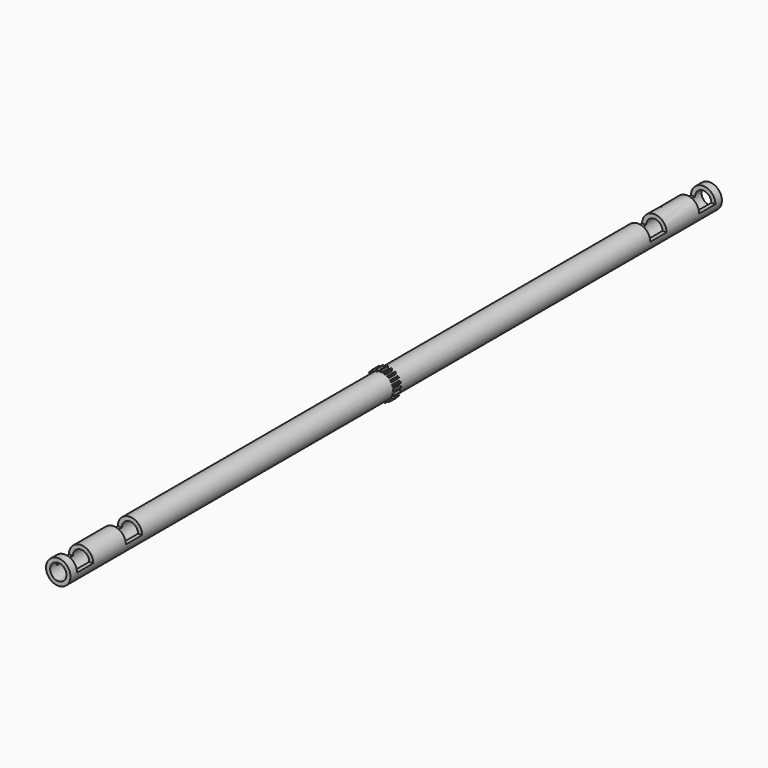
from build123d import *

# Parameters (mm, degrees)
F0_R     = 19.05
F1_DEPTH = 1270
F4_DEPTH = 6.35
F5_R     = 12.7
F6_DEPTH = 1270
F7_W     = 38.1
F7_H     = 31.75
F8_DEPTH = 19.05


with BuildPart() as f1:
    # F0 (on Front) → F1 (new body)
    with BuildSketch(Plane.XZ):
        Circle(F0_R)
    extrude(amount=F1_DEPTH)

    # F3 (on offset) → F4 (join, symmetric)
    with BuildSketch(Plane.XZ.offset(635)):
        with BuildLine():
            Line((17.956624, 11.605638), (18.417724, 12.439376))
            ThreePointArc((18.417724, 12.439376), (17.980403, 13.063527), (17.521939, 13.672318))
            Line((17.521939, 13.672318), (16.58652, 13.491425))
            ThreePointArc((16.58652, 13.491425), (15.792349, 13.245457), (15.070439, 12.833082))
            Line((15.070439, 12.833082), (14.466592, 12.394362))
            Line((14.466592, 12.394362), (16.22553, 9.90477))
            Line((16.22553, 9.90477), (16.862008, 10.367198))
            ThreePointArc((16.862008, 10.367198), (17.477283, 10.926345), (17.956624, 11.605638))
        make_face()
        with BuildLine():
            Line((13.491425, 16.58652), (13.672318, 17.521939))
            ThreePointArc((13.672318, 17.521939), (13.063527, 17.980403), (12.439376, 18.417724))
            Line((12.439376, 18.417724), (11.605638, 17.956624))
            ThreePointArc((11.605638, 17.956624), (10.926345, 17.477283), (10.367198, 16.862008))
            Line((10.367198, 16.862008), (9.928478, 16.258162))
            Line((9.928478, 16.258162), (12.370654, 14.43396))
            Line((12.370654, 14.43396), (12.833082, 15.070439))
            ThreePointArc((12.833082, 15.070439), (13.245457, 15.792349), (13.491425, 16.58652))
        make_face()
        with BuildLine():
            Line((7.705591, 19.943797), (7.58857, 20.889333))
            ThreePointArc((7.58857, 20.889333), (6.867903, 21.137231), (6.13916, 21.360275))
            Line((6.13916, 21.360275), (5.488716, 20.664104))
            ThreePointArc((5.488716, 20.664104), (4.990794, 19.99831), (4.649144, 19.240363))
            Line((4.649144, 19.240363), (4.418496, 18.530499))
            Line((4.418496, 18.530499), (7.304852, 17.550254))
            Line((7.304852, 17.550254), (7.547965, 18.298479))
            ThreePointArc((7.547965, 18.298479), (7.717074, 19.112488), (7.705591, 19.943797))
        make_face()
        with BuildLine():
            Line((1.165481, 21.348837), (0.762, 22.211933))
            ThreePointArc((0.762, 22.211933), (0, 22.225), (-0.762, 22.211933))
            Line((-0.762, 22.211933), (-1.165481, 21.348837))
            ThreePointArc((-1.165481, 21.348837), (-1.43329, 20.561763), (-1.524, 19.735337))
            Line((-1.524, 19.735337), (-1.524, 18.988942))
            Line((-1.524, 18.988942), (1.524, 18.948607))
            Line((1.524, 18.948607), (1.524, 19.735337))
            ThreePointArc((1.524, 19.735337), (1.43329, 20.561763), (1.165481, 21.348837))
        make_face()
        with BuildLine():
            Line((-5.488716, 20.664104), (-6.13916, 21.360275))
            ThreePointArc((-6.13916, 21.360275), (-6.867903, 21.137231), (-7.58857, 20.889333))
            Line((-7.58857, 20.889333), (-7.705591, 19.943797))
            ThreePointArc((-7.705591, 19.943797), (-7.717074, 19.112488), (-7.547965, 18.298479))
            Line((-7.547965, 18.298479), (-7.317316, 17.588615))
            Line((-7.317316, 17.588615), (-4.406031, 18.492138))
            Line((-4.406031, 18.492138), (-4.649144, 19.240363))
            ThreePointArc((-4.649144, 19.240363), (-4.990794, 19.99831), (-5.488716, 20.664104))
        make_face()
        with BuildLine():
            Line((-11.605638, 17.956624), (-12.439376, 18.417724))
            ThreePointArc((-12.439376, 18.417724), (-13.063527, 17.980403), (-13.672318, 17.521939))
            Line((-13.672318, 17.521939), (-13.491425, 16.58652))
            ThreePointArc((-13.491425, 16.58652), (-13.245457, 15.792349), (-12.833082, 15.070439))
            Line((-12.833082, 15.070439), (-12.394362, 14.466592))
            Line((-12.394362, 14.466592), (-9.90477, 16.22553))
            Line((-9.90477, 16.22553), (-10.367198, 16.862008))
            ThreePointArc((-10.367198, 16.862008), (-10.926345, 17.477283), (-11.605638, 17.956624))
        make_face()
        with BuildLine():
            Line((-16.58652, 13.491425), (-17.521939, 13.672318))
            ThreePointArc((-17.521939, 13.672318), (-17.980403, 13.063527), (-18.417724, 12.439376))
            Line((-18.417724, 12.439376), (-17.956624, 11.605638))
            ThreePointArc((-17.956624, 11.605638), (-17.477283, 10.926345), (-16.862008, 10.367198))
            Line((-16.862008, 10.367198), (-16.258162, 9.928478))
            Line((-16.258162, 9.928478), (-14.43396, 12.370654))
            Line((-14.43396, 12.370654), (-15.070439, 12.833082))
            ThreePointArc((-15.070439, 12.833082), (-15.792349, 13.245457), (-16.58652, 13.491425))
        make_face()
        with BuildLine():
            Line((-19.943797, 7.705591), (-20.889333, 7.58857))
            ThreePointArc((-20.889333, 7.58857), (-21.137231, 6.867903), (-21.360275, 6.13916))
            Line((-21.360275, 6.13916), (-20.664104, 5.488716))
            ThreePointArc((-20.664104, 5.488716), (-19.99831, 4.990794), (-19.240363, 4.649144))
            Line((-19.240363, 4.649144), (-18.530499, 4.418496))
            Line((-18.530499, 4.418496), (-17.550254, 7.304852))
            Line((-17.550254, 7.304852), (-18.298479, 7.547965))
            ThreePointArc((-18.298479, 7.547965), (-19.112488, 7.717074), (-19.943797, 7.705591))
        make_face()
        with BuildLine():
            Line((-21.348837, 1.165481), (-22.211933, 0.762))
            ThreePointArc((-22.211933, 0.762), (-22.225, 0), (-22.211933, -0.762))
            Line((-22.211933, -0.762), (-21.348837, -1.165481))
            ThreePointArc((-21.348837, -1.165481), (-20.561763, -1.43329), (-19.735337, -1.524))
            Line((-19.735337, -1.524), (-18.988942, -1.524))
            Line((-18.988942, -1.524), (-18.948607, 1.524))
            Line((-18.948607, 1.524), (-19.735337, 1.524))
            ThreePointArc((-19.735337, 1.524), (-20.561763, 1.43329), (-21.348837, 1.165481))
        make_face()
        with BuildLine():
            ThreePointArc((-21.360275, -6.13916), (-21.137231, -6.867903), (-20.889333, -7.58857))
            Line((-20.889333, -7.58857), (-19.943797, -7.705591))
            ThreePointArc((-19.943797, -7.705591), (-19.112488, -7.717074), (-18.298479, -7.547965))
            Line((-18.298479, -7.547965), (-17.588615, -7.317316))
            Line((-17.588615, -7.317316), (-18.492138, -4.406031))
            Line((-18.492138, -4.406031), (-19.240363, -4.649144))
            ThreePointArc((-19.240363, -4.649144), (-19.99831, -4.990794), (-20.664104, -5.488716))
            Line((-20.664104, -5.488716), (-21.360275, -6.13916))
        make_face()
        with BuildLine():
            ThreePointArc((-18.417724, -12.439376), (-17.980403, -13.063527), (-17.521939, -13.672318))
            Line((-17.521939, -13.672318), (-16.58652, -13.491425))
            ThreePointArc((-16.58652, -13.491425), (-15.792349, -13.245457), (-15.070439, -12.833082))
            Line((-15.070439, -12.833082), (-14.466592, -12.394362))
            Line((-14.466592, -12.394362), (-16.22553, -9.90477))
            Line((-16.22553, -9.90477), (-16.862008, -10.367198))
            ThreePointArc((-16.862008, -10.367198), (-17.477283, -10.926345), (-17.956624, -11.605638))
            Line((-17.956624, -11.605638), (-18.417724, -12.439376))
        make_face()
        with BuildLine():
            ThreePointArc((-13.672318, -17.521939), (-13.063527, -17.980403), (-12.439376, -18.417724))
            Line((-12.439376, -18.417724), (-11.605638, -17.956624))
            ThreePointArc((-11.605638, -17.956624), (-10.926345, -17.477283), (-10.367198, -16.862008))
            Line((-10.367198, -16.862008), (-9.928478, -16.258162))
            Line((-9.928478, -16.258162), (-12.370654, -14.43396))
            Line((-12.370654, -14.43396), (-12.833082, -15.070439))
            ThreePointArc((-12.833082, -15.070439), (-13.245457, -15.792349), (-13.491425, -16.58652))
            Line((-13.491425, -16.58652), (-13.672318, -17.521939))
        make_face()
        with BuildLine():
            ThreePointArc((-7.58857, -20.889333), (-6.867903, -21.137231), (-6.13916, -21.360275))
            Line((-6.13916, -21.360275), (-5.488716, -20.664104))
            ThreePointArc((-5.488716, -20.664104), (-4.990794, -19.99831), (-4.649144, -19.240363))
            Line((-4.649144, -19.240363), (-4.418496, -18.530499))
            Line((-4.418496, -18.530499), (-7.304852, -17.550254))
            Line((-7.304852, -17.550254), (-7.547965, -18.298479))
            ThreePointArc((-7.547965, -18.298479), (-7.717074, -19.112488), (-7.705591, -19.943797))
            Line((-7.705591, -19.943797), (-7.58857, -20.889333))
        make_face()
        with BuildLine():
            ThreePointArc((-0.762, -22.211933), (0, -22.225), (0.762, -22.211933))
            Line((0.762, -22.211933), (1.165481, -21.348837))
            ThreePointArc((1.165481, -21.348837), (1.43329, -20.561763), (1.524, -19.735337))
            Line((1.524, -19.735337), (1.524, -18.988942))
            Line((1.524, -18.988942), (-1.524, -18.948607))
            Line((-1.524, -18.948607), (-1.524, -19.735337))
            ThreePointArc((-1.524, -19.735337), (-1.43329, -20.561763), (-1.165481, -21.348837))
            Line((-1.165481, -21.348837), (-0.762, -22.211933))
        make_face()
        with BuildLine():
            ThreePointArc((6.13916, -21.360275), (6.867903, -21.137231), (7.58857, -20.889333))
            Line((7.58857, -20.889333), (7.705591, -19.943797))
            ThreePointArc((7.705591, -19.943797), (7.717074, -19.112488), (7.547965, -18.298479))
            Line((7.547965, -18.298479), (7.317316, -17.588615))
            Line((7.317316, -17.588615), (4.406031, -18.492138))
            Line((4.406031, -18.492138), (4.649144, -19.240363))
            ThreePointArc((4.649144, -19.240363), (4.990794, -19.99831), (5.488716, -20.664104))
            Line((5.488716, -20.664104), (6.13916, -21.360275))
        make_face()
        with BuildLine():
            ThreePointArc((12.439376, -18.417724), (13.063527, -17.980403), (13.672318, -17.521939))
            Line((13.672318, -17.521939), (13.491425, -16.58652))
            ThreePointArc((13.491425, -16.58652), (13.245457, -15.792349), (12.833082, -15.070439))
            Line((12.833082, -15.070439), (12.394362, -14.466592))
            Line((12.394362, -14.466592), (9.90477, -16.22553))
            Line((9.90477, -16.22553), (10.367198, -16.862008))
            ThreePointArc((10.367198, -16.862008), (10.926345, -17.477283), (11.605638, -17.956624))
            Line((11.605638, -17.956624), (12.439376, -18.417724))
        make_face()
        with BuildLine():
            ThreePointArc((17.521939, -13.672318), (17.980403, -13.063527), (18.417724, -12.439376))
            Line((18.417724, -12.439376), (17.956624, -11.605638))
            ThreePointArc((17.956624, -11.605638), (17.477283, -10.926345), (16.862008, -10.367198))
            Line((16.862008, -10.367198), (16.258162, -9.928478))
            Line((16.258162, -9.928478), (14.43396, -12.370654))
            Line((14.43396, -12.370654), (15.070439, -12.833082))
            ThreePointArc((15.070439, -12.833082), (15.792349, -13.245457), (16.58652, -13.491425))
            Line((16.58652, -13.491425), (17.521939, -13.672318))
        make_face()
        with BuildLine():
            ThreePointArc((20.889333, -7.58857), (21.137231, -6.867903), (21.360275, -6.13916))
            Line((21.360275, -6.13916), (20.664104, -5.488716))
            ThreePointArc((20.664104, -5.488716), (19.99831, -4.990794), (19.240363, -4.649144))
            Line((19.240363, -4.649144), (18.530499, -4.418496))
            Line((18.530499, -4.418496), (17.550254, -7.304852))
            Line((17.550254, -7.304852), (18.298479, -7.547965))
            ThreePointArc((18.298479, -7.547965), (19.112488, -7.717074), (19.943797, -7.705591))
            Line((19.943797, -7.705591), (20.889333, -7.58857))
        make_face()
        with BuildLine():
            ThreePointArc((22.211933, -0.762), (22.221733, -0.381056), (22.225, 0))
            ThreePointArc((22.225, 0), (22.221733, 0.381056), (22.211933, 0.762))
            Line((22.211933, 0.762), (21.348837, 1.165481))
            ThreePointArc((21.348837, 1.165481), (20.561763, 1.43329), (19.735337, 1.524))
            Line((19.735337, 1.524), (18.988942, 1.524))
            Line((18.988942, 1.524), (18.948607, -1.524))
            Line((18.948607, -1.524), (19.735337, -1.524))
            ThreePointArc((19.735337, -1.524), (20.561763, -1.43329), (21.348837, -1.165481))
            Line((21.348837, -1.165481), (22.211933, -0.762))
        make_face()
        with BuildLine():
            Line((20.664104, 5.488716), (21.360275, 6.13916))
            ThreePointArc((21.360275, 6.13916), (21.137231, 6.867903), (20.889333, 7.58857))
            Line((20.889333, 7.58857), (19.943797, 7.705591))
            ThreePointArc((19.943797, 7.705591), (19.112488, 7.717074), (18.298479, 7.547965))
            Line((18.298479, 7.547965), (17.588615, 7.317316))
            Line((17.588615, 7.317316), (18.492138, 4.406031))
            Line((18.492138, 4.406031), (19.240363, 4.649144))
            ThreePointArc((19.240363, 4.649144), (19.99831, 4.990794), (20.664104, 5.488716))
        make_face()
    extrude(amount=F4_DEPTH, both=True)

    # F5 (on face) → F6 (cut)
    with BuildSketch(Plane.XZ.offset(1270)):
        Circle(F5_R)
    extrude(amount=-F6_DEPTH, mode=Mode.SUBTRACT)

    # F7 (on Top) → F8 (cut)
    with BuildSketch(Plane.XY):
        with Locations((0, -28.575)):
            Rectangle(F7_W, F7_H)
        with Locations((0, -1241.425)):
            Rectangle(F7_W, F7_H)
        with Locations((0, -123.825)):
            Rectangle(F7_W, F7_H)
        with Locations((0, -1146.175)):
            Rectangle(F7_W, F7_H)
    extrude(amount=F8_DEPTH, mode=Mode.SUBTRACT)


solid = f1.part
